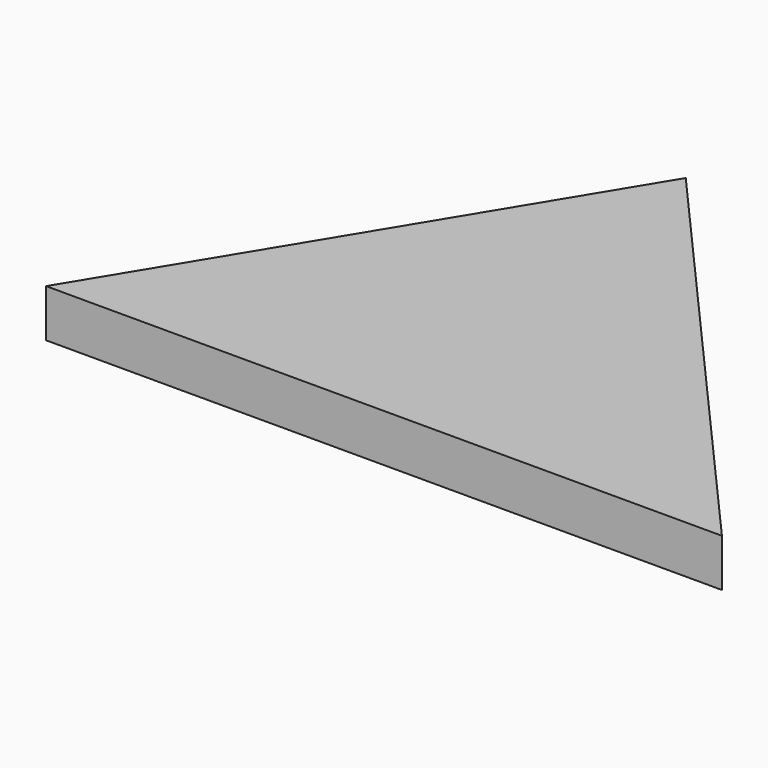
from build123d import *

# Parameters (mm, degrees)
F2_DEPTH = 7.62


with BuildPart() as f2:
    # F1 (on face) → F2 (new body)
    with BuildSketch(Plane.XY):
        Polygon((-59.085313, 0), (48.848521, 0), (-15.034558, 72.628714), align=None)
    extrude(amount=F2_DEPTH)


solid = f2.part
